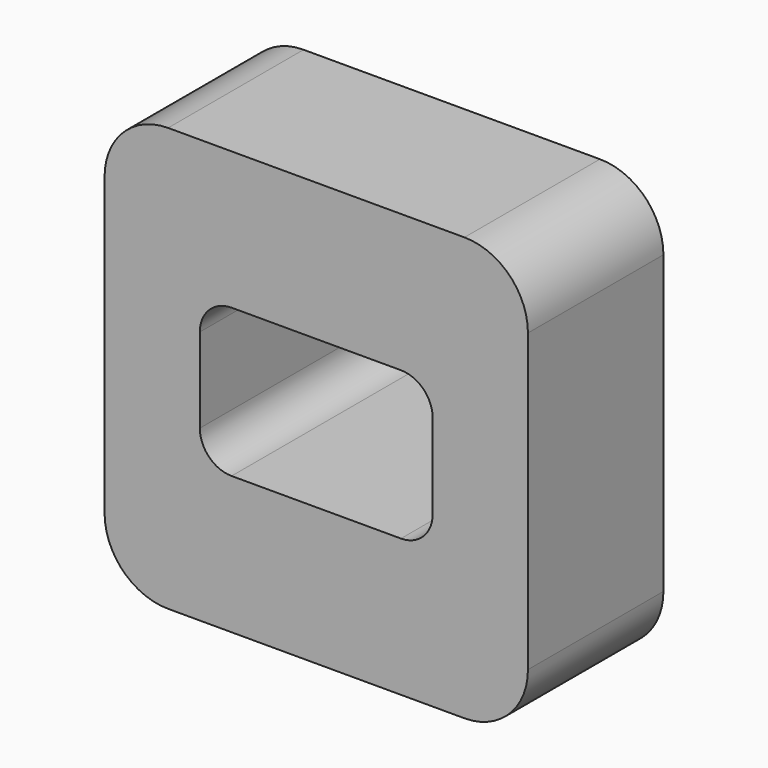
from build123d import *

# Parameters (mm, degrees)
F1_DEPTH = 8
F2_W     = 12.25
F2_H     = 9.3
F3_DEPTH = 4
F5_DEPTH = 25


with BuildPart() as f1:
    # F0 (on Front) → F1 (new body)
    with BuildSketch(Plane.XZ):
        with BuildLine():
            ThreePointArc((10, 7), (9.12132, 9.12132), (7, 10))
            Line((7, 10), (-7, 10))
            ThreePointArc((-7, 10), (-9.12132, 9.12132), (-10, 7))
            Line((-10, 7), (-10, -7))
            ThreePointArc((-10, -7), (-9.12132, -9.12132), (-7, -10))
            Line((-7, -10), (7, -10))
            ThreePointArc((7, -10), (9.12132, -9.12132), (10, -7))
            Line((10, -7), (10, 7))
        make_face()
        with BuildLine():
            ThreePointArc((10, 7), (9.12132, 9.12132), (7, 10))
            Line((7, 10), (-7, 10))
            ThreePointArc((-7, 10), (-9.12132, 9.12132), (-10, 7))
            Line((-10, 7), (-10, -7))
            ThreePointArc((-10, -7), (-9.12132, -9.12132), (-7, -10))
            Line((-7, -10), (7, -10))
            ThreePointArc((7, -10), (9.12132, -9.12132), (10, -7))
            Line((10, -7), (10, 7))
        make_face()
    extrude(amount=F1_DEPTH)

    # F2 (on Front) → F3 (join)
    with BuildSketch(Plane.XZ):
        Rectangle(F2_W, F2_H)
    extrude(amount=-F3_DEPTH)

    # F4 (on face) → F5 (cut)
    with BuildSketch(Plane(origin=(0, 4, 0), x_dir=(-1, 0, 0), z_dir=(0, 1, 0))):
        with BuildLine():
            ThreePointArc((5.5, 2), (5.06066, 3.06066), (4, 3.5))
            Line((4, 3.5), (-4, 3.5))
            ThreePointArc((-4, 3.5), (-5.06066, 3.06066), (-5.5, 2))
            Line((-5.5, 2), (-5.5, -2))
            ThreePointArc((-5.5, -2), (-5.06066, -3.06066), (-4, -3.5))
            Line((-4, -3.5), (4, -3.5))
            ThreePointArc((4, -3.5), (5.06066, -3.06066), (5.5, -2))
            Line((5.5, -2), (5.5, 2))
        make_face()
    extrude(amount=-F5_DEPTH, mode=Mode.SUBTRACT)


solid = f1.part
